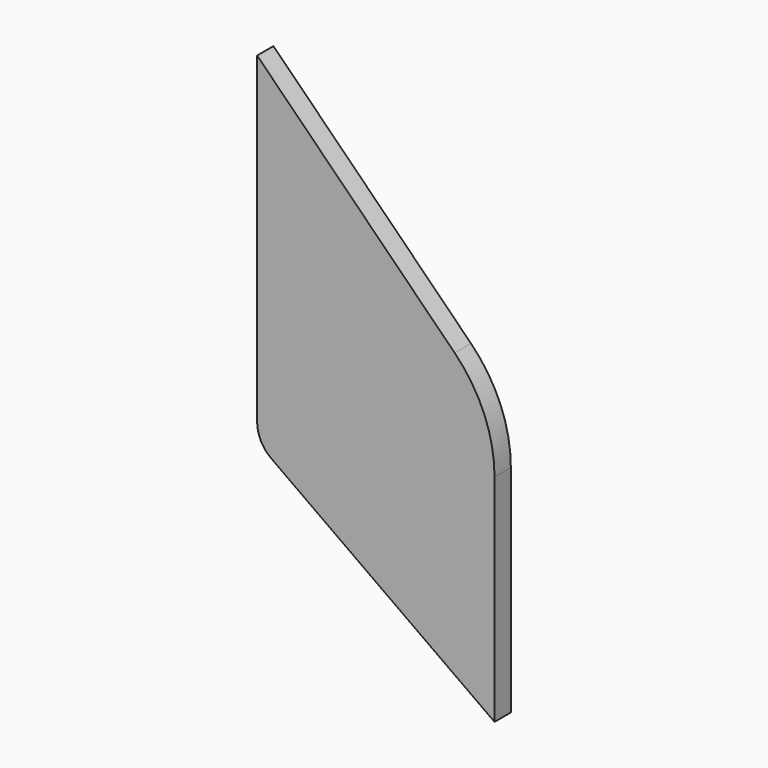
from build123d import *

# Parameters (mm, degrees)
PAD008_DEPTH            = 1.5
FILLET010_R             = 20
FILLET011_R             = 5
BODY009_PLACEMENT_ANGLE = 90


with BuildPart() as part:
    # Sketch013 → Pad008 (new body, symmetric)
    with BuildSketch(Plane.YZ):
        Polygon((27, -2.5), (61.9, -27.4), (61.9, 12.6), (27, 47.5), align=None)
    extrude(amount=PAD008_DEPTH, both=True)

    # Fillet010
    fillet010_edges = [part.edges().sort_by_distance(p)[0] for p in [
        (0, 61.9, 12.6),
    ]]
    fillet(fillet010_edges, radius=FILLET010_R)

    # Fillet011
    fillet011_edges = [part.edges().sort_by_distance(p)[0] for p in [
        (0, 27, -2.5),
    ]]
    fillet(fillet011_edges, radius=FILLET011_R)


with BuildPart() as part_1:
    # Body009 placement: moved
    add(part.part.rotate(Axis((0, 0, 0), (0, 0, -1)), BODY009_PLACEMENT_ANGLE))


solid = part_1.part
